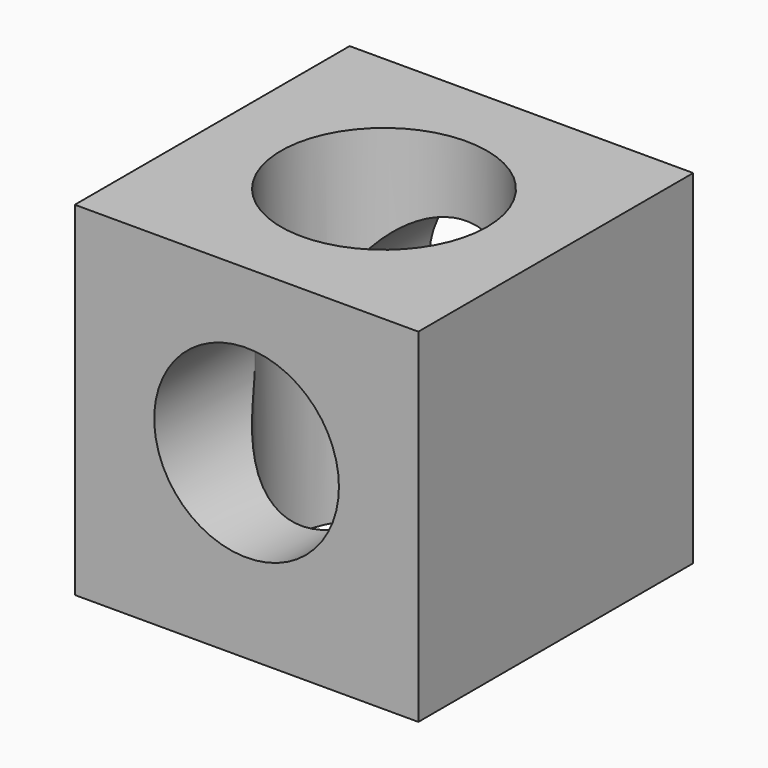
from build123d import *

# Parameters (mm, degrees)
F0_W     = 5
F0_H     = 5
F1_DEPTH = 5
F2_R     = 1.5
F3_DEPTH = 8.0264
F5_R     = 1.344016
F6_DEPTH = 20


with BuildPart() as f1:
    # F0 (on Top) → F1 (new body)
    with BuildSketch(Plane.XY):
        Rectangle(F0_W, F0_H)
    extrude(amount=F1_DEPTH)

    # F2 (on face) → F3 (cut)
    with BuildSketch(Plane.XY.offset(5)):
        Circle(F2_R)
    extrude(amount=-F3_DEPTH, mode=Mode.SUBTRACT)

    # F5 (on face) → F6 (cut)
    with BuildSketch(Plane.XZ.offset(2.5)):
        with Locations((0, 2.635571)):
            Circle(F5_R)
    extrude(amount=-F6_DEPTH, mode=Mode.SUBTRACT)


solid = f1.part
